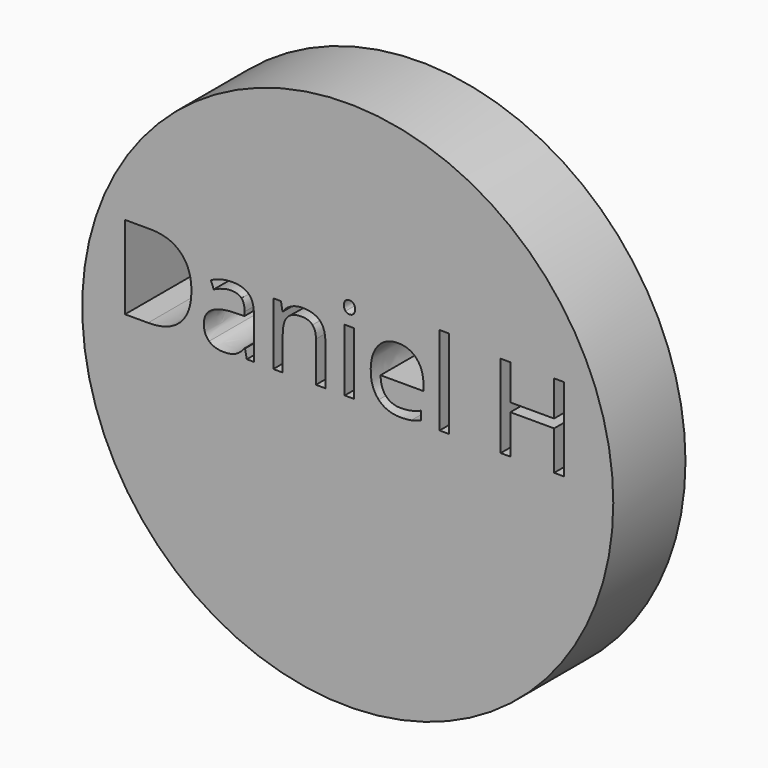
from build123d import *

# Parameters (mm, degrees)
F0_R     = 74.7300726791
F0_W     = 2.6575055344
F0_H     = 17.5374883535
F0_H_2   = 24.9006732447
F2_DEPTH = 25.4
F1_W     = 46.1440682411
F1_H     = 48.5022477806
F3_DEPTH = 41.148


with BuildPart() as f2:
    # F0 (on Front) → F2 (new body)
    with BuildSketch(Plane.XZ):
        Circle(F0_R)
        with BuildLine():
            add(Edge.make_bspline(
                [(-47.0298489993, 22.4099815138), (-44.0062323942, 19.3863649086), (-44.0062323942, 13.9587042795)],
                knots=[0, 0, 0, 1, 1, 1], degree=2))
            add(Edge.make_bspline(
                [(-44.0062323942, 13.9587042795), (-44.0062323942, 8.1674927969), (-47.1501792114, 5.1029127153)],
                knots=[0, 0, 0, 1, 1, 1], degree=2))
            add(Edge.make_bspline(
                [(-47.1501792114, 5.1029127153), (-50.2941260287, 2.0383326337), (-56.1979870715, 2.0383326337)],
                knots=[0, 0, 0, 1, 1, 1], degree=2))
            Line((-56.1979870715, 2.0383326337), (-62.6804572191, 2.0383326337))
            Line((-62.6804572191, 2.0383326337), (-62.6804572191, 25.433598119))
            Line((-62.6804572191, 25.433598119), (-55.511848841, 25.433598119))
            add(Edge.make_bspline(
                [(-55.511848841, 25.433598119), (-50.0534656045, 25.433598119), (-47.0298489993, 22.4099815138)],
                knots=[0, 0, 0, 1, 1, 1], degree=2))
        make_face(mode=Mode.SUBTRACT)
        with BuildLine():
            Line((-26.4329009988, 2.0383326337), (-28.4042683027, 2.0383326337))
            Line((-28.4042683027, 2.0383326337), (-28.931673062, 4.5371046969))
            Line((-28.931673062, 4.5371046969), (-29.0596839259, 4.5371046969))
            add(Edge.make_bspline(
                [(-29.0596839259, 4.5371046969), (-30.3705151722, 2.8883247699), (-31.6736657666, 2.3020350133)],
                knots=[0, 0, 0, 1, 1, 1], degree=2))
            add(Edge.make_bspline(
                [(-31.6736657666, 2.3020350133), (-32.976816361, 1.7157452567), (-34.9328223613, 1.7157452567)],
                knots=[0, 0, 0, 1, 1, 1], degree=2))
            add(Edge.make_bspline(
                [(-34.9328223613, 1.7157452567), (-37.5391235502, 1.7157452567), (-39.0189291368, 3.0624195448)],
                knots=[0, 0, 0, 1, 1, 1], degree=2))
            add(Edge.make_bspline(
                [(-39.0189291368, 3.0624195448), (-40.4987347235, 4.409093833), (-40.4987347235, 6.887384158)],
                knots=[0, 0, 0, 1, 1, 1], degree=2))
            add(Edge.make_bspline(
                [(-40.4987347235, 6.887384158), (-40.4987347235, 12.1972747923), (-32.0039337954, 12.4532965201)],
                knots=[0, 0, 0, 1, 1, 1], degree=2))
            Line((-32.0039337954, 12.4532965201), (-29.0289613185, 12.5505847767))
            Line((-29.0289613185, 12.5505847767), (-29.0289613185, 13.641237337))
            add(Edge.make_bspline(
                [(-29.0289613185, 13.641237337), (-29.0289613185, 15.704772463), (-29.9147964967, 16.6878958977)],
                knots=[0, 0, 0, 1, 1, 1], degree=2))
            add(Edge.make_bspline(
                [(-29.9147964967, 16.6878958977), (-30.8006316748, 17.6710193324), (-32.7566376751, 17.6710193324)],
                knots=[0, 0, 0, 1, 1, 1], degree=2))
            add(Edge.make_bspline(
                [(-32.7566376751, 17.6710193324), (-34.948183665, 17.6710193324), (-37.7132183251, 16.3294654788)],
                knots=[0, 0, 0, 1, 1, 1], degree=2))
            Line((-37.7132183251, 16.3294654788), (-38.5324878541, 18.3622779975))
            add(Edge.make_bspline(
                [(-38.5324878541, 18.3622779975), (-37.2370179114, 19.0637775316), (-35.6932068929, 19.463171427)],
                knots=[0, 0, 0, 1, 1, 1], degree=2))
            add(Edge.make_bspline(
                [(-35.6932068929, 19.463171427), (-34.1493958743, 19.8625653223), (-32.5927837694, 19.8625653223)],
                knots=[0, 0, 0, 1, 1, 1], degree=2))
            add(Edge.make_bspline(
                [(-32.5927837694, 19.8625653223), (-29.4590778212, 19.8625653223), (-27.94598941, 18.4723673404)],
                knots=[0, 0, 0, 1, 1, 1], degree=2))
            add(Edge.make_bspline(
                [(-27.94598941, 18.4723673404), (-26.4329009988, 17.0821693585), (-26.4329009988, 14.0099086251)],
                knots=[0, 0, 0, 1, 1, 1], degree=2))
            Line((-26.4329009988, 14.0099086251), (-26.4329009988, 2.0383326337))
        make_face(mode=Mode.SUBTRACT)
        with BuildLine():
            Line((-6.30447276, 2.0383326337), (-8.9619782945, 2.0383326337))
            Line((-8.9619782945, 2.0383326337), (-8.9619782945, 13.3852156093))
            add(Edge.make_bspline(
                [(-8.9619782945, 13.3852156093), (-8.9619782945, 15.5255572536), (-9.9374210774, 16.5829269893)],
                knots=[0, 0, 0, 1, 1, 1], degree=2))
            add(Edge.make_bspline(
                [(-9.9374210774, 16.5829269893), (-10.9128638602, 17.6402967251), (-12.9968807244, 17.6402967251)],
                knots=[0, 0, 0, 1, 1, 1], degree=2))
            add(Edge.make_bspline(
                [(-12.9968807244, 17.6402967251), (-15.7465540809, 17.6402967251), (-17.0266627198, 16.1528104866)],
                knots=[0, 0, 0, 1, 1, 1], degree=2))
            add(Edge.make_bspline(
                [(-17.0266627198, 16.1528104866), (-18.3067713588, 14.6653242482), (-18.3067713588, 11.2397535304)],
                knots=[0, 0, 0, 1, 1, 1], degree=2))
            Line((-18.3067713588, 11.2397535304), (-18.3067713588, 2.0383326337))
            Line((-18.3067713588, 2.0383326337), (-20.9642768932, 2.0383326337))
            Line((-20.9642768932, 2.0383326337), (-20.9642768932, 19.5758209872))
            Line((-20.9642768932, 19.5758209872), (-18.8034535107, 19.5758209872))
            Line((-18.8034535107, 19.5758209872), (-18.373337008, 17.1743371805))
            Line((-18.373337008, 17.1743371805), (-18.2453261441, 17.1743371805))
            add(Edge.make_bspline(
                [(-18.2453261441, 17.1743371805), (-17.4260566152, 18.4698071231), (-15.9539316804, 19.1841077437)],
                knots=[0, 0, 0, 1, 1, 1], degree=2))
            add(Edge.make_bspline(
                [(-15.9539316804, 19.1841077437), (-14.4818067456, 19.8984083642), (-12.6742933474, 19.8984083642)],
                knots=[0, 0, 0, 1, 1, 1], degree=2))
            add(Edge.make_bspline(
                [(-12.6742933474, 19.8984083642), (-9.5047443574, 19.8984083642), (-7.9046085587, 18.3699586493)],
                knots=[0, 0, 0, 1, 1, 1], degree=2))
            add(Edge.make_bspline(
                [(-7.9046085587, 18.3699586493), (-6.30447276, 16.8415089344), (-6.30447276, 13.4773834313)],
                knots=[0, 0, 0, 1, 1, 1], degree=2))
            Line((-6.30447276, 13.4773834313), (-6.30447276, 2.0383326337))
        make_face(mode=Mode.SUBTRACT)
        with Locations((0.4775428091, 10.8070768104)):
            Rectangle(F0_W, F0_H, mode=Mode.SUBTRACT)
        with BuildLine():
            add(Edge.make_bspline(
                [(17.8793396468, 1.9820078536), (16.6248331807, 1.7157452567), (14.8480423898, 1.7157452567)],
                knots=[0, 0, 0, 1, 1, 1], degree=2))
            add(Edge.make_bspline(
                [(14.8480423898, 1.7157452567), (10.961632562, 1.7157452567), (8.7112015747, 4.086506456)],
                knots=[0, 0, 0, 1, 1, 1], degree=2))
            add(Edge.make_bspline(
                [(8.7112015747, 4.086506456), (6.4607705875, 6.4572676553), (6.4607705875, 10.6611444256)],
                knots=[0, 0, 0, 1, 1, 1], degree=2))
            add(Edge.make_bspline(
                [(6.4607705875, 10.6611444256), (6.4607705875, 14.9059846723), (8.5499078862, 17.4021965183)],
                knots=[0, 0, 0, 1, 1, 1], degree=2))
            add(Edge.make_bspline(
                [(8.5499078862, 17.4021965183), (10.639045185, 19.8984083642), (14.1619041594, 19.8984083642)],
                knots=[0, 0, 0, 1, 1, 1], degree=2))
            add(Edge.make_bspline(
                [(14.1619041594, 19.8984083642), (17.4543435787, 19.8984083642), (19.3745065371, 17.7299043298)],
                knots=[0, 0, 0, 1, 1, 1], degree=2))
            add(Edge.make_bspline(
                [(19.3745065371, 17.7299043298), (21.2946694955, 15.5614002955), (21.2946694955, 12.0078187138)],
                knots=[0, 0, 0, 1, 1, 1], degree=2))
            Line((21.2946694955, 12.0078187138), (21.2946694955, 10.3283161795))
            Line((21.2946694955, 10.3283161795), (9.2155643785, 10.3283161795))
            add(Edge.make_bspline(
                [(9.2155643785, 10.3283161795), (9.2974913314, 7.2406941423), (10.777296918, 5.6405583437)],
                knots=[0, 0, 0, 1, 1, 1], degree=2))
            add(Edge.make_bspline(
                [(10.777296918, 5.6405583437), (12.2571025046, 4.040422545), (14.9453306464, 4.040422545)],
                knots=[0, 0, 0, 1, 1, 1], degree=2))
            add(Edge.make_bspline(
                [(14.9453306464, 4.040422545), (17.7769309557, 4.040422545), (20.5419656158, 5.2232429274)],
                knots=[0, 0, 0, 1, 1, 1], degree=2))
            Line((20.5419656158, 5.2232429274), (20.5419656158, 2.852481728))
            add(Edge.make_bspline(
                [(20.5419656158, 2.852481728), (19.133846113, 2.2482704505), (17.8793396468, 1.9820078536)],
                knots=[0, 0, 0, 1, 1, 1], degree=2))
        make_face(mode=Mode.SUBTRACT)
        with Locations((27.1550068446, 14.488669256)):
            Rectangle(F0_W, F0_H_2, mode=Mode.SUBTRACT)
        with BuildLine():
            add(Edge.make_bspline(
                [(-0.628471055, 22.9911508359), (-1.0765090786, 23.4315082077), (-1.0765090786, 24.3275842549)],
                knots=[0, 0, 0, 1, 1, 1], degree=2))
            add(Edge.make_bspline(
                [(-1.0765090786, 24.3275842549), (-1.0765090786, 25.2390216059), (-0.628471055, 25.664017674)],
                knots=[0, 0, 0, 1, 1, 1], degree=2))
            add(Edge.make_bspline(
                [(-0.628471055, 25.664017674), (-0.1804330313, 26.0890137421), (0.49546433, 26.0890137421)],
                knots=[0, 0, 0, 1, 1, 1], degree=2))
            add(Edge.make_bspline(
                [(0.49546433, 26.0890137421), (1.1355186495, 26.0890137421), (1.5989179768, 25.6563370222)],
                knots=[0, 0, 0, 1, 1, 1], degree=2))
            add(Edge.make_bspline(
                [(1.5989179768, 25.6563370222), (2.0623173041, 25.2236603022), (2.0623173041, 24.3275842549)],
                knots=[0, 0, 0, 1, 1, 1], degree=2))
            add(Edge.make_bspline(
                [(2.0623173041, 24.3275842549), (2.0623173041, 23.4315082077), (1.5989179768, 22.9911508359)],
                knots=[0, 0, 0, 1, 1, 1], degree=2))
            add(Edge.make_bspline(
                [(1.5989179768, 22.9911508359), (1.1355186495, 22.5507934641), (0.49546433, 22.5507934641)],
                knots=[0, 0, 0, 1, 1, 1], degree=2))
            add(Edge.make_bspline(
                [(0.49546433, 22.5507934641), (-0.1804330313, 22.5507934641), (-0.628471055, 22.9911508359)],
                knots=[0, 0, 0, 1, 1, 1], degree=2))
        make_face(mode=Mode.SUBTRACT)
        Polygon((60.7937016587, 25.433598119), (60.7937016587, 2.0383326337), (58.0747509096, 2.0383326337), (58.0747509096, 13.0472669286), (45.7498649339, 13.0472669286), (45.7498649339, 2.0383326337), (43.0309141848, 2.0383326337), (43.0309141848, 25.433598119), (45.7498649339, 25.433598119), (45.7498649339, 15.4794733426), (58.0747509096, 15.4794733426), (58.0747509096, 25.433598119), align=None, mode=Mode.SUBTRACT)
    extrude(amount=F2_DEPTH)

    # F1 (on face) → F3 (join)
    with BuildSketch(Plane.XZ):
        with Locations((-2.2770911455, -36.7938820273)):
            Rectangle(F1_W, F1_H)
    extrude(amount=-F3_DEPTH)


solid = f2.part
